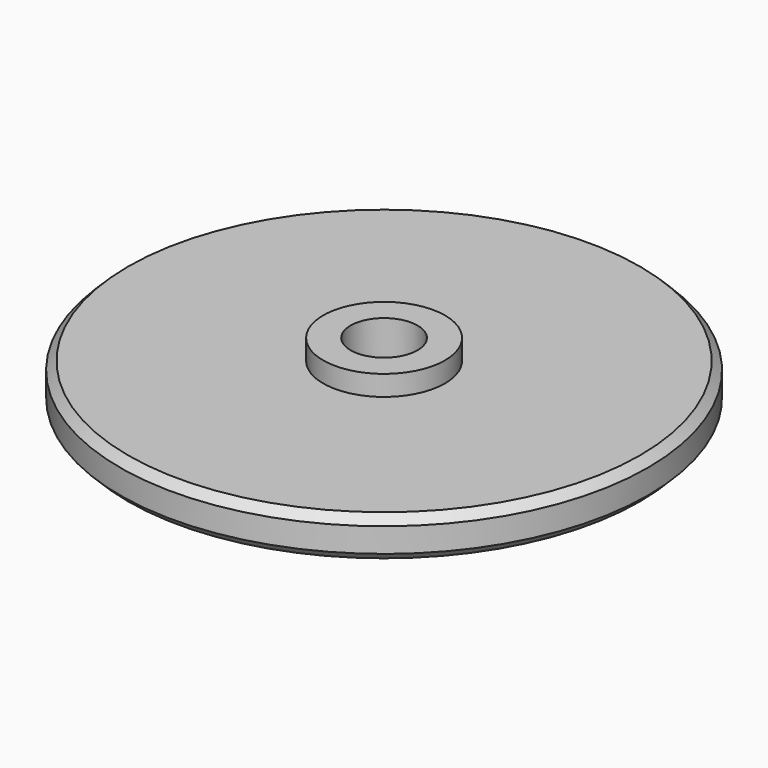
from build123d import *

# Parameters (mm, degrees)
CYLINDER016_R                              = 1.65
CYLINDER016_DEPTH                          = 10
CYLINDER014_R                              = 13
CYLINDER014_DEPTH                          = 2
CYLINDER015_R                              = 3
CYLINDER015_DEPTH                          = 3
CHAMFER004013007011015006009007001083_SIZE = 0.4


with BuildPart() as cylinder016:
    # Cylinder016 → Cylinder016 (new body)
    with BuildSketch(Plane.XY):
        Circle(CYLINDER016_R)
    extrude(amount=CYLINDER016_DEPTH)


with BuildPart() as cylinder014:
    # Cylinder014 → Cylinder014 (new body)
    with BuildSketch(Plane.XY):
        Circle(CYLINDER014_R)
    extrude(amount=CYLINDER014_DEPTH)


with BuildPart() as stopper:
    # Cylinder015 → Cylinder015 (new body)
    with BuildSketch(Plane.XY):
        Circle(CYLINDER015_R)
    extrude(amount=CYLINDER015_DEPTH)

    # Fusion006002011004053036004001028003005014018035002007006011: union Cylinder014
    add(cylinder014.part)

    # Cut008004003004014002002005003004003002003021022001002001106: cut Cylinder016
    add(cylinder016.part, mode=Mode.SUBTRACT)

    # Chamfer004013007011015006009007001083
    chamfer004013007011015006009007001083_edges = [stopper.edges().sort_by_distance(p)[0] for p in [
        (-13, 0, 2),
        (-13, 0, 0),
        (-1.65, 0, 0),
    ]]
    chamfer(chamfer004013007011015006009007001083_edges, length=CHAMFER004013007011015006009007001083_SIZE)


solid = stopper.part
